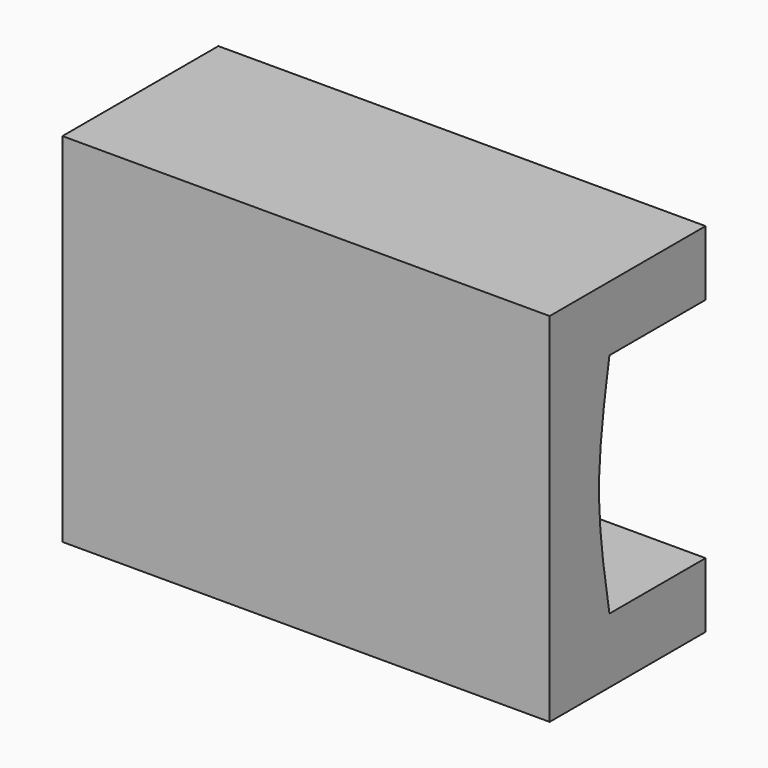
from build123d import *

# Parameters (mm, degrees)
F0_W     = 38.1
F0_H     = 15.24
F1_DEPTH = 27.94
F3_DEPTH = 38.1


with BuildPart() as f1:
    # F0 (on Top) → F1 (new body)
    with BuildSketch(Plane.XY):
        with Locations((19.05, -7.62)):
            Rectangle(F0_W, F0_H)
    extrude(amount=F1_DEPTH)

    # F2 (on face) → F3 (cut)
    with BuildSketch(Plane(origin=(0, 0, 0), x_dir=(0, -1, 0), z_dir=(-1, 0, 0))):
        with BuildLine():
            Line((0, 22.86), (0, 5.08))
            Line((0, 5.08), (9.398, 5.08))
            add(Edge.make_bspline(
                [(9.398, 5.08), (9.906, 8.0433333333), (10.414, 11.0066666667), (10.414, 13.97)],
                knots=[0, 0, 0, 0, 0.5, 0.5, 0.5, 0.5], degree=3))
            add(Edge.make_bspline(
                [(10.414, 13.97), (10.414, 16.9333333333), (9.906, 19.8966666667), (9.398, 22.86)],
                knots=[0.5, 0.5, 0.5, 0.5, 1, 1, 1, 1], degree=3))
            Line((9.398, 22.86), (0, 22.86))
        make_face()
    extrude(amount=-F3_DEPTH, mode=Mode.SUBTRACT)


solid = f1.part
